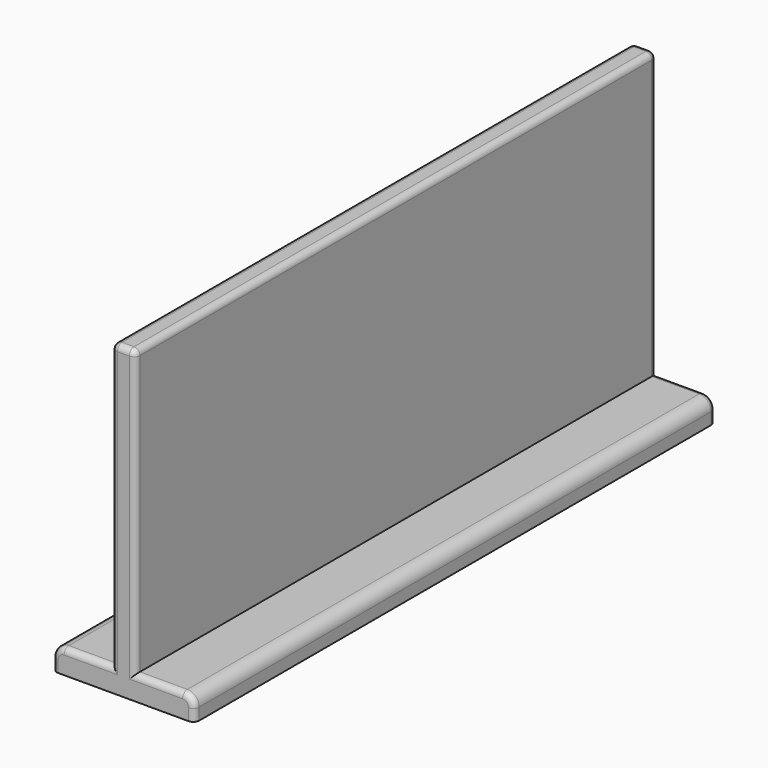
from build123d import *

# Parameters (mm, degrees)
PAD007_DEPTH = 55
FILLET008_R  = 0.5
FILLET009_R  = 1
FILLET010_R  = 0.5
FILLET011_R  = 0.5


with BuildPart() as part:
    # Sketch014 → Pad007 (new body)
    with BuildSketch(Plane.XZ):
        Polygon((0, 0), (12, 0), (12, 2), (7, 2), (7, 26), (5, 26), (5, 2), (0, 2), align=None)
    extrude(amount=PAD007_DEPTH)

    # Fillet008
    fillet008_edges = [part.edges().sort_by_distance(p)[0] for p in [
        (5, -27.5, 26),
        (7, -27.5, 26),
    ]]
    fillet(fillet008_edges, radius=FILLET008_R)

    # Fillet009
    fillet009_edges = [part.edges().sort_by_distance(p)[0] for p in [
        (0, -27.5, 2),
        (12, -27.5, 2),
    ]]
    fillet(fillet009_edges, radius=FILLET009_R)

    # Fillet010
    fillet010_edges = [part.edges().sort_by_distance(p)[0] for p in [
        (5, -55, 13.75),
        (5.146447, -55, 25.853553),
        (6, -55, 26),
        (6.853553, -55, 25.853553),
        (7, -55, 13.75),
        (3, -55, 2),
        (0.292893, -55, 1.707107),
        (0, -55, 0.5),
        (9, -55, 2),
        (11.707107, -55, 1.707107),
        (12, -55, 0.5),
    ]]
    fillet(fillet010_edges, radius=FILLET010_R)

    # Fillet011
    fillet011_edges = [part.edges().sort_by_distance(p)[0] for p in [
        (12, 0, 0.5),
        (11.707107, 0, 1.707107),
        (9, 0, 2),
        (7, 0, 13.75),
        (6.853553, 0, 25.853553),
        (6, 0, 26),
        (5.146447, 0, 25.853553),
        (5, 0, 13.75),
        (3, 0, 2),
        (0.292893, 0, 1.707107),
        (0, 0, 0.5),
    ]]
    fillet(fillet011_edges, radius=FILLET011_R)


with BuildPart() as part_1:
    # Body003 placement: moved
    add(part.part.moved(Location((-45, 55, 0))))


solid = part_1.part
